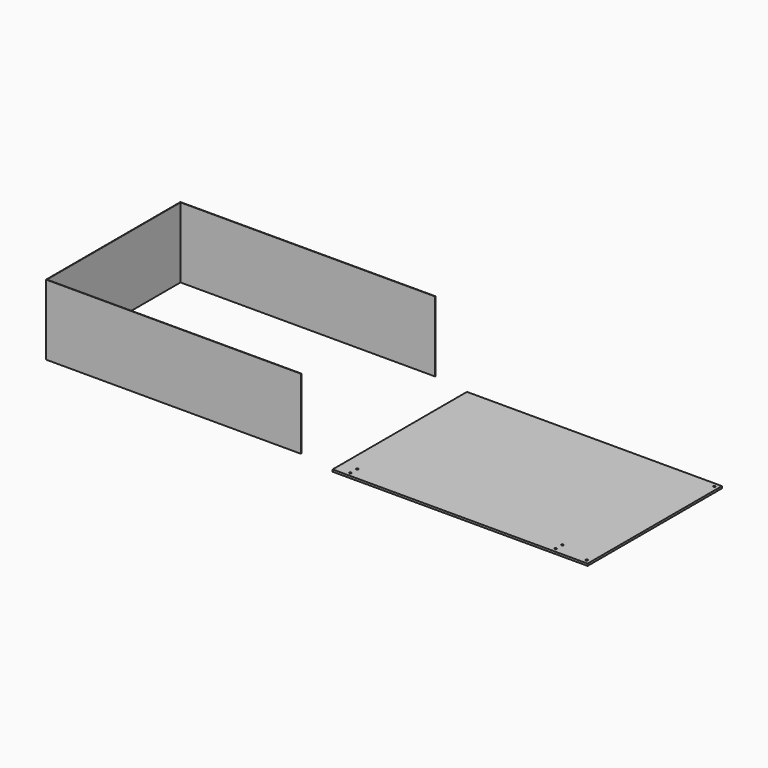
from build123d import *

# Parameters (mm, degrees)
F0_W     = 615
F0_H     = 405
F1_DEPTH = 5
F4_DEPTH = 170
F6_D     = 5
F8_D     = 5
F10_D    = 5
F12_D    = 5
F14_D    = 5
F16_D    = 5


with BuildPart() as f1:
    # F0 (on Top) → F1 (new body)
    with BuildSketch(Plane.XY):
        Rectangle(F0_W, F0_H)
    extrude(amount=F1_DEPTH)

    # F6 (through all)
    with Locations(Plane(origin=(0, 0, 0), x_dir=(1, 0, 0), z_dir=(0, 0, -1))):
        with Locations((-272.5, 192.5)):
            Hole(F6_D / 2)

    # F8 (through all)
    with Locations(Plane(origin=(0, 0, 0), x_dir=(1, 0, 0), z_dir=(0, 0, -1))):
        with Locations((-272.5, 172.5)):
            Hole(F8_D / 2)

    # F10 (through all)
    with Locations(Plane(origin=(0, 0, 0), x_dir=(1, 0, 0), z_dir=(0, 0, -1))):
        with Locations((222.5, 192.5)):
            Hole(F10_D / 2)

    # F12 (through all)
    with Locations(Plane(origin=(0, 0, 0), x_dir=(1, 0, 0), z_dir=(0, 0, -1))):
        with Locations((222.5, 172.5)):
            Hole(F12_D / 2)

    # F14 (through all)
    with Locations(Plane(origin=(0, 0, 0), x_dir=(1, 0, 0), z_dir=(0, 0, -1))):
        with Locations((297.5, -192.5)):
            Hole(F14_D / 2)

    # F16 (through all)
    with Locations(Plane(origin=(0, 0, 0), x_dir=(1, 0, 0), z_dir=(0, 0, -1))):
        with Locations((297.5, 192.5)):
            Hole(F16_D / 2)


with BuildPart() as f4:
    # F3 (on face) → F4 (new body)
    with BuildSketch(Plane.XY.offset(5)):
        Polygon((-1008.5, -190.067157), (-393.5, -190.067157), (-393.5, -189.067157), (-1007.5, -189.067157), (-1007.5, 213.932843), (-393.5, 213.932843), (-393.5, 214.932843), (-1008.5, 214.932843), align=None)
    extrude(amount=F4_DEPTH)


solid = Compound([f1.part, f4.part])
